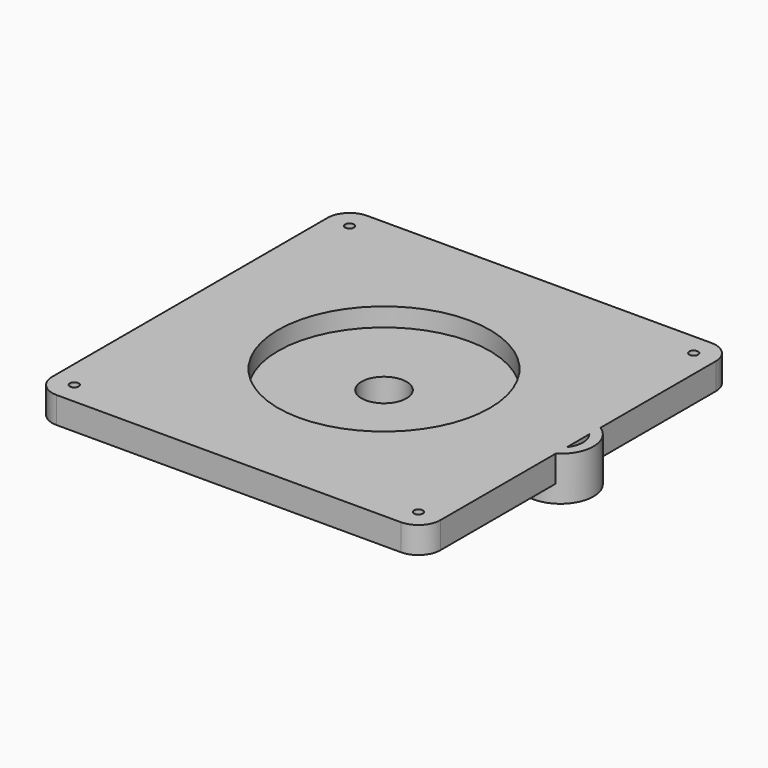
from build123d import *

# Parameters (mm, degrees)
SKETCH074_R     = 2.5
SKETCH074_R_2   = 16
PAD042_DEPTH    = 15
SKETCH060_R     = 12.75
SKETCH060_R_2   = 12.5
PAD043_DEPTH    = 25
SKETCH064_R     = 60
POCKET036_DEPTH = 10.5


with BuildPart() as part:
    # Sketch074 → Pad042 (new body)
    with BuildSketch(Plane.XY):
        with BuildLine():
            ThreePointArc((-97.5, 110), (-106.338835, 106.338835), (-110, 97.5))
            Line((-110, 97.5), (-110, -97.5))
            ThreePointArc((-110, -97.5), (-106.338835, -106.338835), (-97.5, -110))
            Line((-97.5, -110), (97.5, -110))
            ThreePointArc((97.5, -110), (106.338835, -106.338835), (110, -97.5))
            Line((110, -97.5), (110, 97.5))
            ThreePointArc((110, 97.5), (106.338835, 106.338835), (97.5, 110))
            Line((97.5, 110), (-97.5, 110))
        make_face()
        with Locations((-97.5, 97.5)):
            Circle(SKETCH074_R, mode=Mode.SUBTRACT)
        with Locations((97.5, 97.5)):
            Circle(SKETCH074_R, mode=Mode.SUBTRACT)
        with Locations((-97.5, -97.5)):
            Circle(SKETCH074_R, mode=Mode.SUBTRACT)
        with Locations((97.5, -97.5)):
            Circle(SKETCH074_R, mode=Mode.SUBTRACT)
        Circle(SKETCH074_R_2, mode=Mode.SUBTRACT)
    extrude(amount=-PAD042_DEPTH)

    # Sketch060 → Pad043 (join)
    with BuildSketch(Plane(origin=(0, 0, 0), x_dir=(1, 0, 0), z_dir=(0, 0, -1))):
        with BuildLine():
            ThreePointArc((0, 18.75), (-18.75, 0), (0, -18.75))
            Line((0, -18.75), (100, -18.75))
            ThreePointArc((100, -18.75), (118.75, 0), (100, 18.75))
            Line((100, 18.75), (0, 18.75))
        make_face()
        Circle(SKETCH060_R, mode=Mode.SUBTRACT)
        with Locations((100, 0)):
            Circle(SKETCH060_R, mode=Mode.SUBTRACT)
        with Locations((50, 0)):
            Circle(SKETCH060_R_2, mode=Mode.SUBTRACT)
    extrude(amount=PAD043_DEPTH)

    # Sketch064 → Pocket036 (cut)
    with BuildSketch(Plane(origin=(0, 0, 0), x_dir=(1, 0, 0), z_dir=(0, 0, -1))):
        Circle(SKETCH064_R)
    extrude(amount=POCKET036_DEPTH, mode=Mode.SUBTRACT)


solid = part.part
